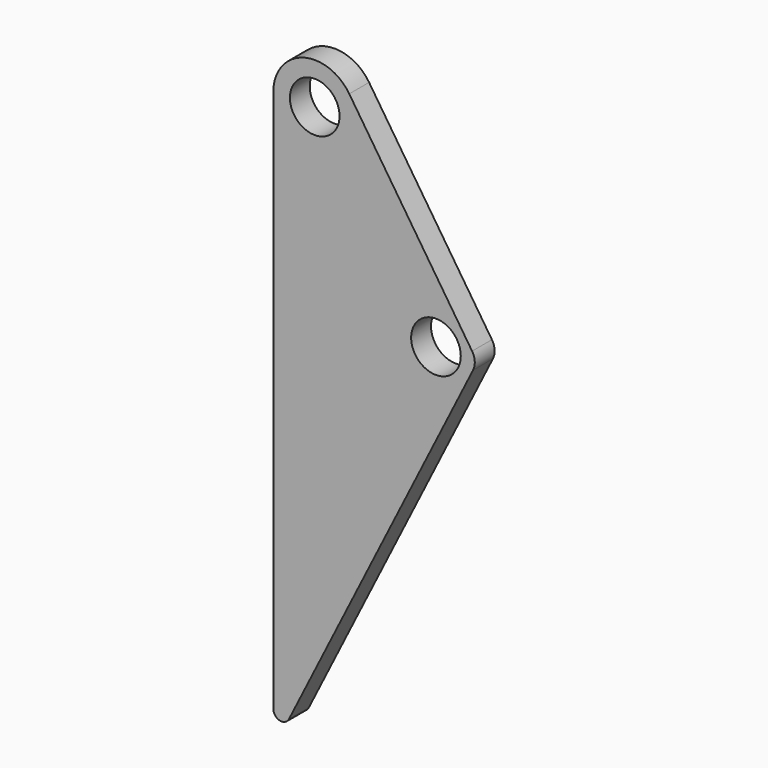
from build123d import *

# Parameters (mm, degrees)
F0_R     = 3
F1_DEPTH = 3


with BuildPart() as f1:
    # F0 (on Front) → F1 (new body)
    with BuildSketch(Plane.XZ):
        with BuildLine():
            Line((19.024315, -19.800895), (4.176033, 2.749682))
            ThreePointArc((4.176033, 2.749682), (-1.400587, 4.799829), (-4.999478, 0.072273))
            Line((-4.999478, 0.072273), (-4.999478, -65.703579))
            ThreePointArc((-4.999478, -65.703579), (-4.229845, -66.676683), (-3.105615, -66.151921))
            Line((-3.105615, -66.151921), (19.141626, -21.797451))
            ThreePointArc((19.141626, -21.797451), (19.350458, -20.783456), (19.024315, -19.800895))
        make_face()
        Circle(F0_R, mode=Mode.SUBTRACT)
        with Locations((14.659327, -20.765308)):
            Circle(F0_R, mode=Mode.SUBTRACT)
    extrude(amount=F1_DEPTH)


solid = f1.part
